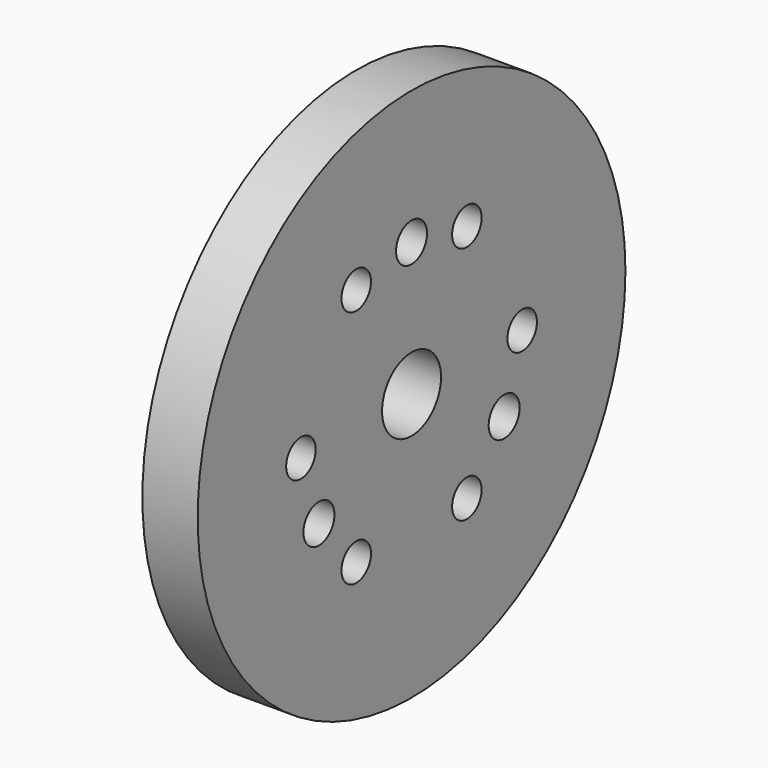
from build123d import *

# Parameters (mm, degrees)
F0_R     = 29
F0_R_2   = 2
F0_R_3   = 2.1
F0_R_4   = 4
F1_DEPTH = 6


with BuildPart() as f1:
    # F0 (on Right) → F1 (new body)
    with BuildSketch(Plane.YZ):
        Circle(F0_R)
        with Locations((-7.5, -12.990381)):
            Circle(F0_R_2, mode=Mode.SUBTRACT)
        with Locations((-12.557368, -7.25)):
            Circle(F0_R_3, mode=Mode.SUBTRACT)
        with Locations((7.5, -12.990381)):
            Circle(F0_R_2, mode=Mode.SUBTRACT)
        with Locations((12.557368, -7.25)):
            Circle(F0_R_3, mode=Mode.SUBTRACT)
        with Locations((-15, 0)):
            Circle(F0_R_2, mode=Mode.SUBTRACT)
        with Locations((-7.5, 12.990381)):
            Circle(F0_R_2, mode=Mode.SUBTRACT)
        Circle(F0_R_4, mode=Mode.SUBTRACT)
        with Locations((7.5, 12.990381)):
            Circle(F0_R_2, mode=Mode.SUBTRACT)
        with Locations((15, 0)):
            Circle(F0_R_2, mode=Mode.SUBTRACT)
        with Locations((0, 14.5)):
            Circle(F0_R_3, mode=Mode.SUBTRACT)
    extrude(amount=F1_DEPTH)


solid = f1.part
